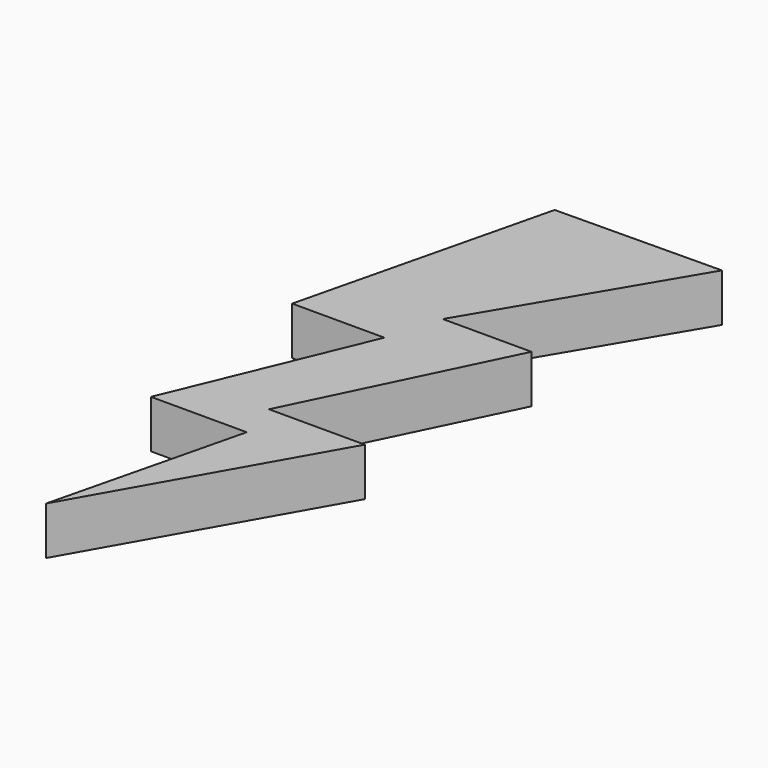
from build123d import *

# Parameters (mm, degrees)
PAD_DEPTH = 5


with BuildPart() as part:
    # Sketch → Pad (new body)
    with BuildSketch(Plane.XY):
        Polygon((0, 0), (4.894829, 20), (-5.079541, 20), (3.232432, 40), (-6.372514, 40), (0, 66.218712), (17.270432, 66.403419), (4.894829, 45.531139), (14.130354, 45.531139), (3.786564, 24.289427), (13.760929, 24.289427), align=None)
    extrude(amount=PAD_DEPTH)


solid = part.part
